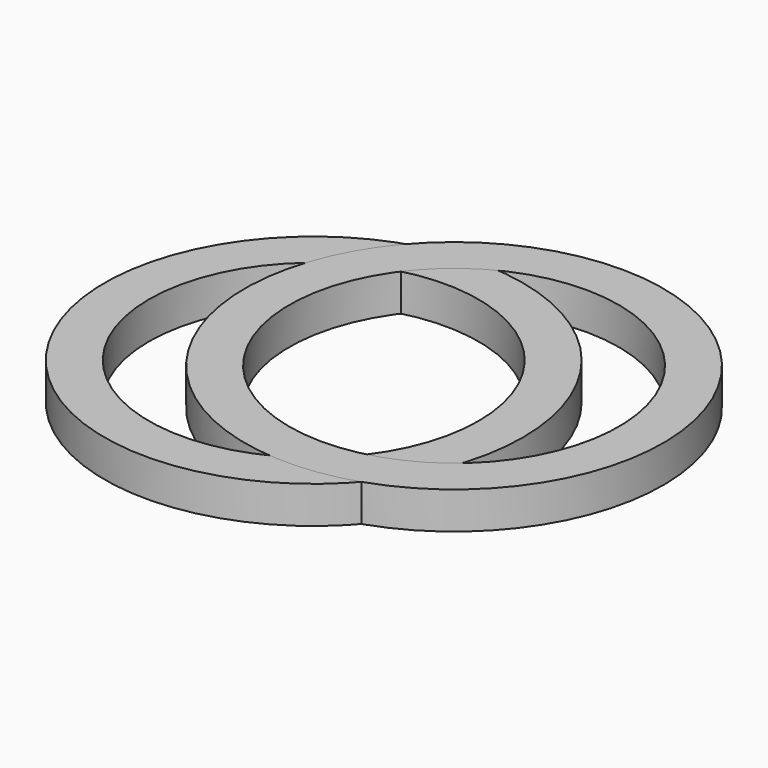
from build123d import *

# Parameters (mm, degrees)
F0_R     = 11.274906
F0_R_2   = 8.880879
F1_DEPTH = 2
F3_COUNT = 2
F3_ANGLE = 10


with BuildPart() as f1:
    # F0 (on Top) → F1 (new body)
    with BuildSketch(Plane.XY):
        with Locations((-21.276318, 26.526319)):
            Circle(F0_R)
        with Locations((-21.276318, 26.526319)):
            Circle(F0_R_2, mode=Mode.SUBTRACT)
    extrude(amount=F1_DEPTH)


with BuildPart() as f3_1:
    # F3: instance of F1
    add(f1.part.rotate(Axis((0, 0, -25.697373), (0, 0, -1)), 1 * F3_ANGLE / (F3_COUNT - 1)))


solid = Compound([f1.part, f3_1.part])
